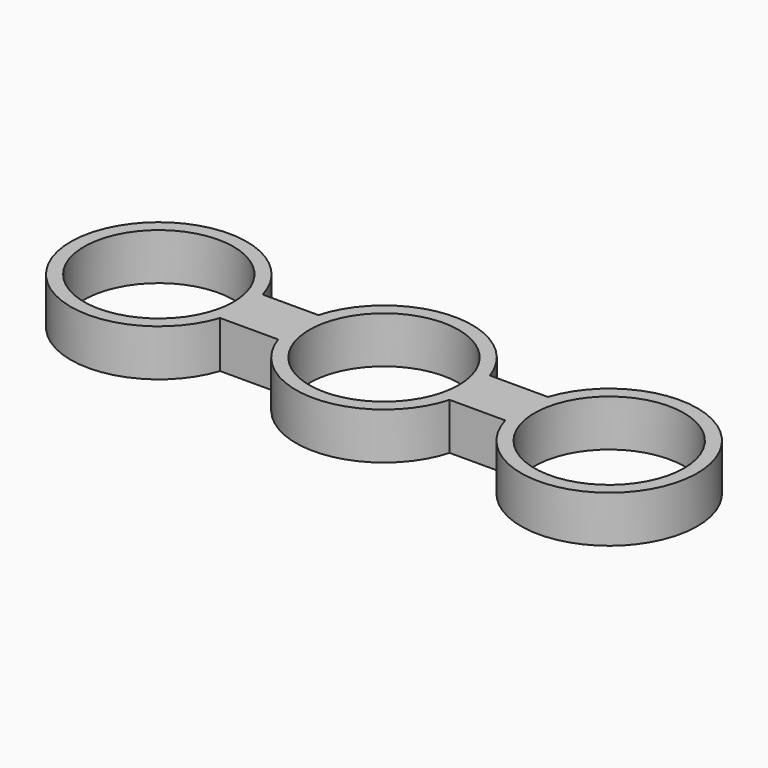
from build123d import *

# Parameters (mm, degrees)
F0_R     = 11.2
F1_DEPTH = 7


with BuildPart() as f1:
    # F0 (on Top) → F1 (new body)
    with BuildSketch(Plane.XY):
        with BuildLine():
            Line((21.221016, 4.17109), (12.523658, 4.17109))
            ThreePointArc((12.523658, 4.17109), (-0.304565, 13.196486), (-12.702753, 3.588882))
            Line((-12.702753, 3.588882), (-21.041922, 3.588882))
            ThreePointArc((-21.041922, 3.588882), (-46.94116, 0.304565), (-21.221016, -4.17109))
            Line((-21.221016, -4.17109), (-12.523658, -4.17109))
            ThreePointArc((-12.523658, -4.17109), (0.304565, -13.196486), (12.702753, -3.588882))
            Line((12.702753, -3.588882), (21.041922, -3.588882))
            ThreePointArc((21.041922, -3.588882), (46.94116, -0.304565), (21.221016, 4.17109))
        make_face()
        with Locations((-33.744674, 0)):
            Circle(F0_R, mode=Mode.SUBTRACT)
        Circle(F0_R, mode=Mode.SUBTRACT)
        with Locations((33.744674, 0)):
            Circle(F0_R, mode=Mode.SUBTRACT)
    extrude(amount=F1_DEPTH)


solid = f1.part
